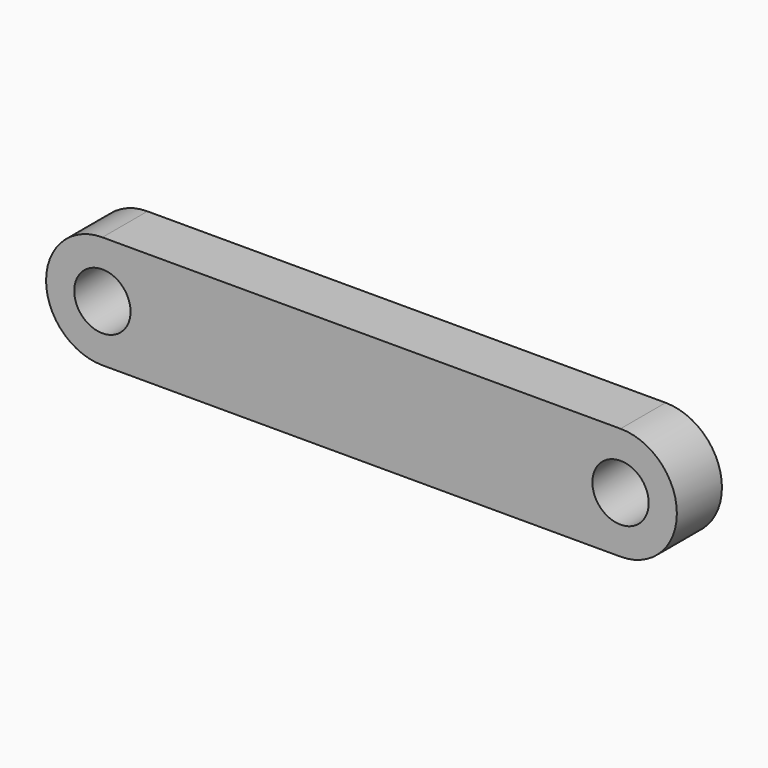
from build123d import *

# Parameters (mm, degrees)
F1_DEPTH = 3.175
F2_R     = 3.175
F3_DEPTH = 6.351


with BuildPart() as f1:
    # F0 (on Front) → F1 (new body, symmetric)
    with BuildSketch(Plane.XZ):
        with BuildLine():
            Line((29.21, 6.35), (-29.21, 6.35))
            ThreePointArc((-29.21, 6.35), (-35.56, 0), (-29.21, -6.35))
            Line((-29.21, -6.35), (29.21, -6.35))
            ThreePointArc((29.21, -6.35), (35.56, 0), (29.21, 6.35))
        make_face()
    extrude(amount=F1_DEPTH, both=True)

    # F2 (on face) → F3 (cut, through all)
    with BuildSketch(Plane.XZ.offset(3.175)):
        with Locations((29.21, 0)):
            Circle(F2_R)
        with Locations((-29.21, 0)):
            Circle(F2_R)
    extrude(amount=-F3_DEPTH, mode=Mode.SUBTRACT)


solid = f1.part
